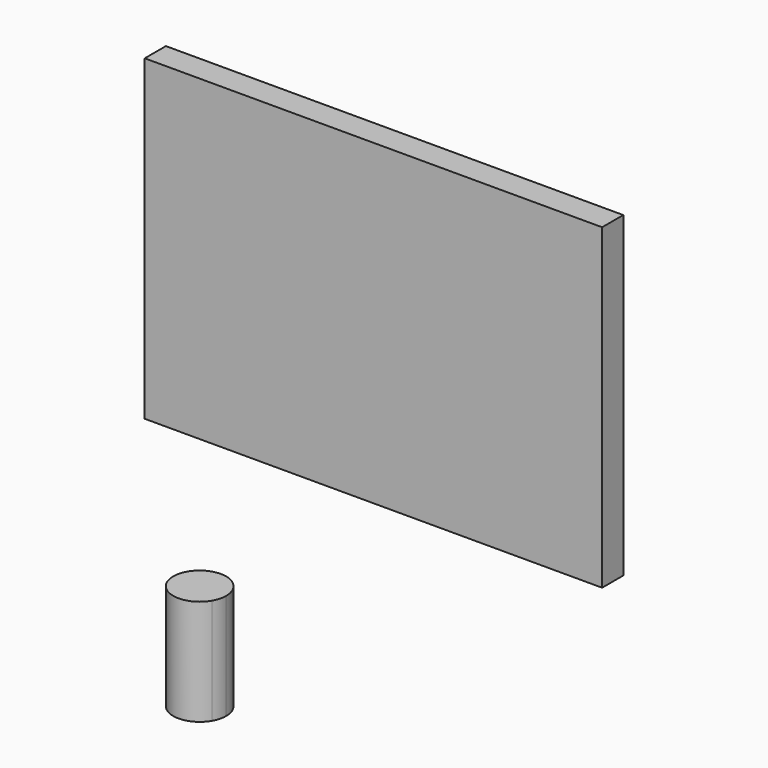
from build123d import *

# Parameters (mm, degrees)
F0_W     = 109.817654
F0_H     = 76.2
F1_DEPTH = 6.35
F3_DEPTH = 25.4


with BuildPart() as f1:
    # F0 (on Front) → F1 (new body)
    with BuildSketch(Plane.XZ):
        with Locations((4.42123, 6.866149)):
            Rectangle(F0_W, F0_H)
    extrude(amount=F1_DEPTH)


with BuildPart() as f3:
    # F2 (on face) → F3 (new body)
    with BuildSketch(Plane(origin=(0, 0, -31.233851), x_dir=(1, 0, 0), z_dir=(0, 0, -1))):
        with BuildLine():
            ThreePointArc((-5.499261, 56.14186), (-1.643501, 46.833231), (6.35, 52.96686))
            ThreePointArc((6.35, 52.96686), (6.133629, 54.610361), (5.499261, 56.14186))
            ThreePointArc((5.499261, 56.14186), (0, 59.31686), (-5.499261, 56.14186))
        make_face()
    extrude(amount=F3_DEPTH)


solid = Compound([f1.part, f3.part])
